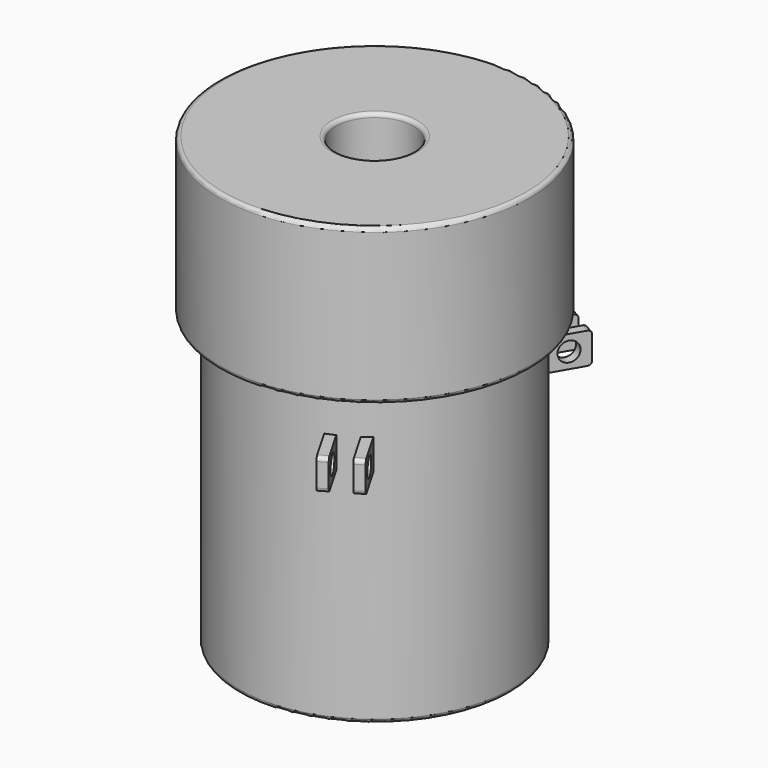
from build123d import *

# Parameters (mm, degrees)
F0_R      = 44.45
F0_R_2    = 20.32
F1_DEPTH  = 95.25
F2_DEPTH  = 25.4
F3_R      = 50.8
F4_DEPTH  = 50.8
F5_R      = 1.27
F6_R      = 1.27
F7_R      = 12.7
F8_DEPTH  = 127
F9_R      = 1.27
F10_R     = 3.175
F11_DEPTH = 6.35
F12_DEPTH = 3.175
F13_COUNT = 3
F15_DEPTH = 5.08


with BuildPart() as f1:
    # F0 (on Top) → F1 (new body)
    with BuildSketch(Plane.XY):
        Circle(F0_R)
        Circle(F0_R_2, mode=Mode.SUBTRACT)
    extrude(amount=-F1_DEPTH)

    # F0 (on Top) → F2 (cut)
    with BuildSketch(Plane.XY):
        Circle(F0_R_2)
    extrude(amount=F2_DEPTH, mode=Mode.SUBTRACT)

    # F3 (on face) → F4 (join)
    with BuildSketch(Plane.XY):
        Circle(F3_R)
    extrude(amount=F4_DEPTH)

    # F5
    f5_edges = [f1.edges().sort_by_distance(p)[0] for p in [
        (50.8, 0, 25.4),
        (-50.8, 0, 0),
        (-50.8, 0, 50.8),
    ]]
    fillet(f5_edges, radius=F5_R)

    # F6
    f6_edges = [f1.edges().sort_by_distance(p)[0] for p in [
        (-44.45, 0, -95.25),
    ]]
    fillet(f6_edges, radius=F6_R)

    # F7 (on face) → F8 (cut)
    with BuildSketch(Plane.XY.offset(50.8)):
        Circle(F7_R)
    extrude(amount=-F8_DEPTH, mode=Mode.SUBTRACT)

    # F9
    f9_edges = [f1.edges().sort_by_distance(p)[0] for p in [
        (-12.7, 0, 50.8),
        (12.7, 0, 25.4),
        (-12.7, 0, 0),
    ]]
    fillet(f9_edges, radius=F9_R)

    # F10 (on Front) → F11 (join, symmetric)
    with BuildSketch(Plane.XZ):
        with BuildLine():
            Line((-55.88, -22.86), (-39.37, -22.86))
            Line((-39.37, -22.86), (-39.37, -12.7))
            Line((-39.37, -12.7), (-55.88, -12.7))
            ThreePointArc((-55.88, -12.7), (-56.7780256121, -13.0719743879), (-57.15, -13.97))
            Line((-57.15, -13.97), (-57.15, -21.59))
            ThreePointArc((-57.15, -21.59), (-56.7780256121, -22.4880256121), (-55.88, -22.86))
        make_face()
        with Locations((-50.8, -17.78)):
            Circle(F10_R, mode=Mode.SUBTRACT)
    extrude(amount=F11_DEPTH, both=True)

    # F10 (on Front) → F12 (cut, symmetric)
    with BuildSketch(Plane.XZ):
        with BuildLine():
            Line((-55.88, -22.86), (-39.37, -22.86))
            Line((-39.37, -22.86), (-39.37, -12.7))
            Line((-39.37, -12.7), (-55.88, -12.7))
            ThreePointArc((-55.88, -12.7), (-56.7780256121, -13.0719743879), (-57.15, -13.97))
            Line((-57.15, -13.97), (-57.15, -21.59))
            ThreePointArc((-57.15, -21.59), (-56.7780256121, -22.4880256121), (-55.88, -22.86))
        make_face()
        with Locations((-50.8, -17.78)):
            Circle(F10_R, mode=Mode.SUBTRACT)
    extrude(amount=F12_DEPTH, both=True, mode=Mode.SUBTRACT)

    # F13: F1 ×3 about axis
    f13_axis = Axis((0, 0, 0), (0, 0, 1))


with BuildPart() as f1_1:
    add(f1.part)
    for i in range(1, F13_COUNT):
        add(f1.part.rotate(f13_axis, i * 360 / F13_COUNT))

    # F14 (on face) → F15 (join)
    with BuildSketch(Plane(origin=(0, 0, -95.25), x_dir=(1, 0, 0), z_dir=(0, 0, -1))):
        with BuildLine():
            ThreePointArc((18.8371441572, -7.62), (19.9458412868, -3.8814707731), (20.32, 0))
            ThreePointArc((20.32, 0), (11.3592253257, 16.848453935), (-7.62, 18.8371441572))
            Line((-7.62, 18.8371441572), (-5.08, 17.0388379885))
            ThreePointArc((-5.08, 17.0388379885), (10.625582337, 14.2557146436), (17.78, 0))
            ThreePointArc((17.78, 0), (17.5937338197, -2.5668911706), (17.0388379885, -5.08))
            Line((17.0388379885, -5.08), (18.8371441572, -7.62))
        make_face()
        with BuildLine():
            Line((-17.0388379885, 5.08), (-18.8371441572, 7.62))
            ThreePointArc((-18.8371441572, 7.62), (-14.3684097937, -14.3684097937), (7.62, -18.8371441572))
            Line((7.62, -18.8371441572), (5.08, -17.0388379885))
            ThreePointArc((5.08, -17.0388379885), (-12.5723585695, -12.5723585695), (-17.0388379885, 5.08))
        make_face()
    extrude(amount=-F15_DEPTH)


solid = f1_1.part
